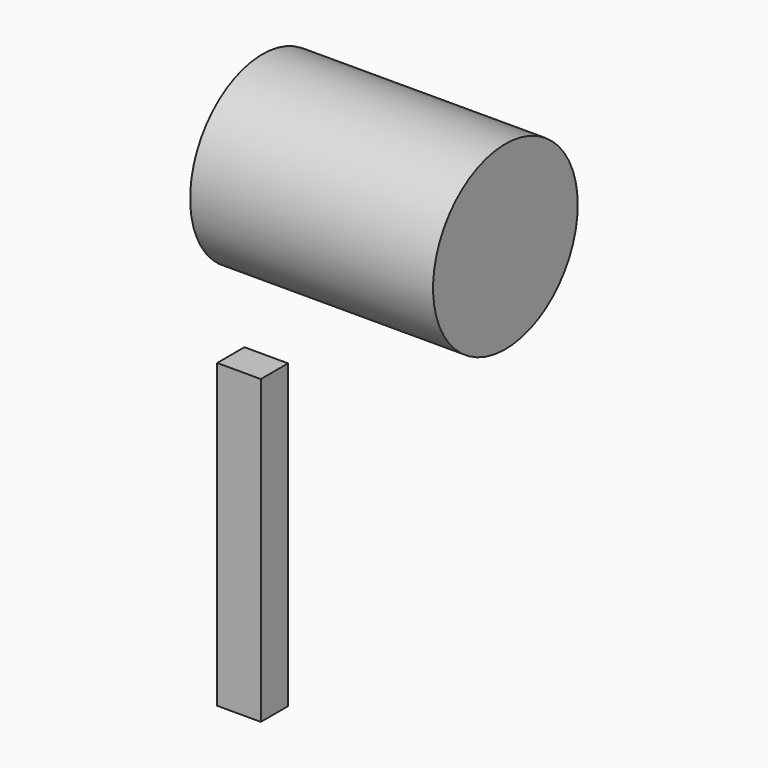
from build123d import *

# Parameters (mm, degrees)
F0_W          = 18.8219472766
F0_H          = 14.6996676922
F1_DEPTH      = 104.775
F1_DEPTH_BACK = 25.4
F2_R          = 38.9906247572
F3_DEPTH      = 104.775


with BuildPart() as f1:
    # F0 (on Top) → F1 (new body, two sides)
    with BuildSketch(Plane.XY) as f1_sk:
        with Locations((-59.8883442581, -61.4062547684)):
            Rectangle(F0_W, F0_H)
    extrude(amount=-F1_DEPTH)
    extrude(f1_sk.sketch, amount=F1_DEPTH_BACK)


with BuildPart() as f3:
    # F2 (on Right) → F3 (new body)
    with BuildSketch(Plane.YZ):
        with Locations((0, 64.1844645143)):
            Circle(F2_R)
    extrude(amount=-F3_DEPTH)


solid = Compound([f1.part, f3.part])
